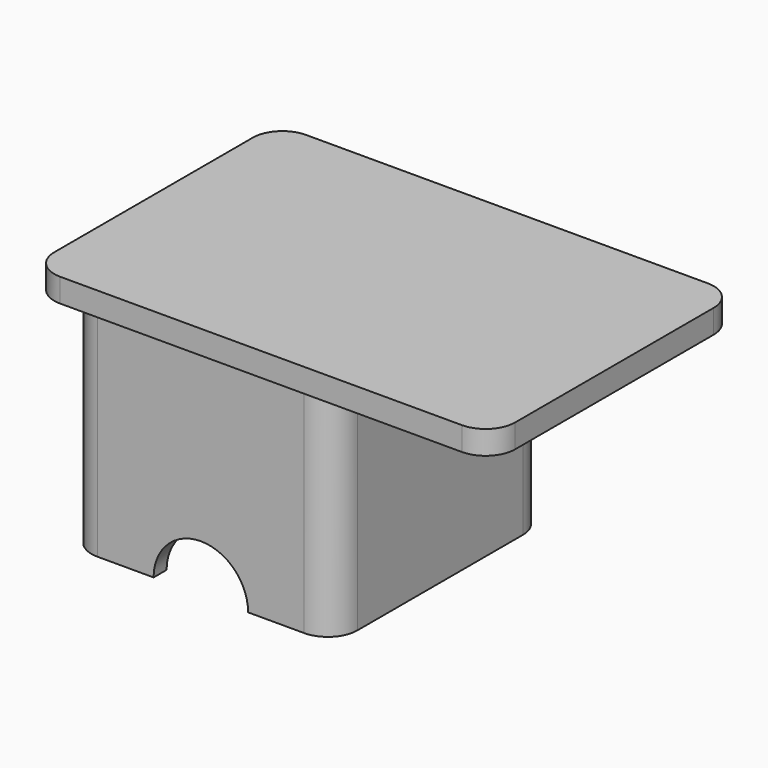
from build123d import *

# Parameters (mm, degrees)
F1_W      = 45
F1_H      = 45
F2_DEPTH  = 38
F0_W      = 39
F0_H      = 39
F3_DEPTH  = 37
F4_R      = 5
F5_R      = 0.5
F6_R      = 5
F7_R      = 8
F8_DEPTH  = 45.001
F9_W      = 52
F9_H      = 52
F10_DEPTH = 4
F11_R     = 5
F13_DEPTH = 11.9
F14_R     = 1
F16_W     = 31
F16_H     = 52
F17_DEPTH = 4
F18_R     = 5


with BuildPart() as f2:
    # F1 (on Top) → F2 (new body)
    with BuildSketch(Plane.XY):
        with Locations((32.002782, -21.252214)):
            Rectangle(F1_W, F1_H)
    extrude(amount=F2_DEPTH)

    # F0 (on Top) → F3 (cut)
    with BuildSketch(Plane.XY):
        with Locations((32.252782, -21.502214)):
            Rectangle(F0_W, F0_H)
    extrude(amount=F3_DEPTH, mode=Mode.SUBTRACT)

    # F4
    f4_edges = [f2.edges().sort_by_distance(p)[0] for p in [
        (12.752782, -41.002214, 18.5),
        (51.752782, -41.002214, 18.5),
        (51.752782, -2.002214, 18.5),
        (12.752782, -2.002214, 18.5),
    ]]
    fillet(f4_edges, radius=F4_R)

    # F5
    f5_edges = [f2.edges().sort_by_distance(p)[0] for p in [
        (51.752782, -21.502214, 37),
    ]]
    fillet(f5_edges, radius=F5_R)

    # F6
    f6_edges = [f2.edges().sort_by_distance(p)[0] for p in [
        (54.502782, 1.247786, 19),
        (54.502782, -43.752214, 19),
        (9.502782, -43.752214, 19),
        (9.502782, 1.247786, 19),
    ]]
    fillet(f6_edges, radius=F6_R)

    # F7 (on face) → F8 (cut, through all)
    with BuildSketch(Plane(origin=(0, 1.247786, 0), x_dir=(-1, 0, 0), z_dir=(0, 1, 0))):
        with Locations((-32.002782, 0)):
            Circle(F7_R)
    extrude(amount=-F8_DEPTH, mode=Mode.SUBTRACT)

    # F9 (on face) → F10 (join)
    with BuildSketch(Plane.XY.offset(38)):
        with Locations((32.002782, -21.252214)):
            Rectangle(F9_W, F9_H)
    extrude(amount=F10_DEPTH)

    # F11
    f11_edges = [f2.edges().sort_by_distance(p)[0] for p in [
        (6.002782, 4.747786, 40),
        (58.002782, 4.747786, 40),
        (58.002782, -47.252214, 40),
        (6.002782, -47.252214, 40),
    ]]
    fillet(f11_edges, radius=F11_R)

    # F12 (on face) → F13 (cut)
    with BuildSketch(Plane(origin=(0, 1.247786, 0), x_dir=(-1, 0, 0), z_dir=(0, 1, 0))):
        with BuildLine():
            Line((-42.502782, 33), (-42.502782, 0))
            Line((-42.502782, 0), (-40.002782, 0))
            ThreePointArc((-40.002782, 0), (-32.002782, 8), (-24.002782, 0))
            Line((-24.002782, 0), (-21.502782, 0))
            Line((-21.502782, 0), (-21.502782, 33))
            Line((-21.502782, 33), (-42.502782, 33))
        make_face()
    extrude(amount=-F13_DEPTH, mode=Mode.SUBTRACT)

    # F14
    f14_edges = [f2.edges().sort_by_distance(p)[0] for p in [
        (21.502782, -0.377214, 33),
        (42.502782, -0.377214, 33),
    ]]
    fillet(f14_edges, radius=F14_R)

    # F16 (on face) → F17 (join)
    with BuildSketch(Plane.XY.offset(42)):
        with Locations((68.502782, -21.252214)):
            Rectangle(F16_W, F16_H)
    extrude(amount=-F17_DEPTH)

    # F18
    f18_edges = [f2.edges().sort_by_distance(p)[0] for p in [
        (84.002782, 4.747786, 40),
        (84.002782, -47.252214, 40),
    ]]
    fillet(f18_edges, radius=F18_R)


solid = f2.part
